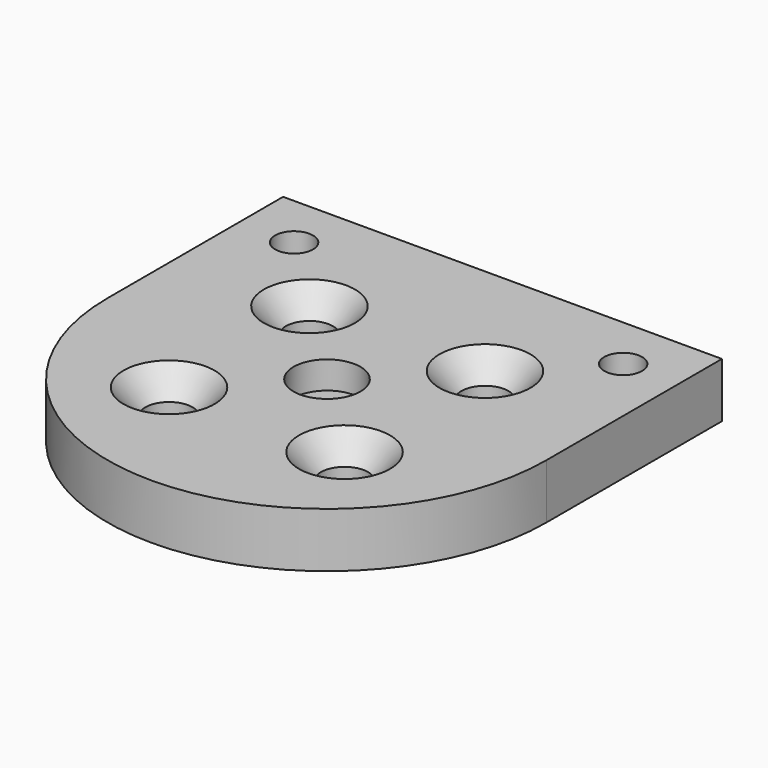
from build123d import *

# Parameters (mm, degrees)
SKETCH104_R         = 3.05
SKETCH104_R_2       = 1.7272
PAD063_DEPTH        = 5
HOLE008_D           = 4.3
HOLE008_CSINK_D     = 8.298
HOLE008_CSINK_ANGLE = 82
SKETCH106_R         = 3.5
PAD064_DEPTH        = 1


with BuildPart() as part:
    # Sketch104 → Pad063 (new body)
    with BuildSketch(Plane.XY):
        with BuildLine():
            ThreePointArc((-20, 0), (0, -20), (20, 0))
            Line((20, 20), (20, 0))
            Line((-20, 20), (20, 20))
            Line((-20, 0), (-20, 20))
        make_face()
        Circle(SKETCH104_R, mode=Mode.SUBTRACT)
        with Locations((-15, 15)):
            Circle(SKETCH104_R_2, mode=Mode.SUBTRACT)
        with Locations((15, 15)):
            Circle(SKETCH104_R_2, mode=Mode.SUBTRACT)
    extrude(amount=PAD063_DEPTH)

    # Hole008 (through all)
    with Locations(Plane.XY.offset(5)):
        with Locations((-8, 8), (8, 8), (8, -8), (-8, -8)):
            CounterSinkHole(HOLE008_D / 2, HOLE008_CSINK_D / 2, counter_sink_angle=HOLE008_CSINK_ANGLE)

    # Sketch106 → Pad064 (join)
    with BuildSketch(Plane.XY.offset(1.5)):
        Circle(SKETCH106_R)
    extrude(amount=PAD064_DEPTH)


solid = part.part
